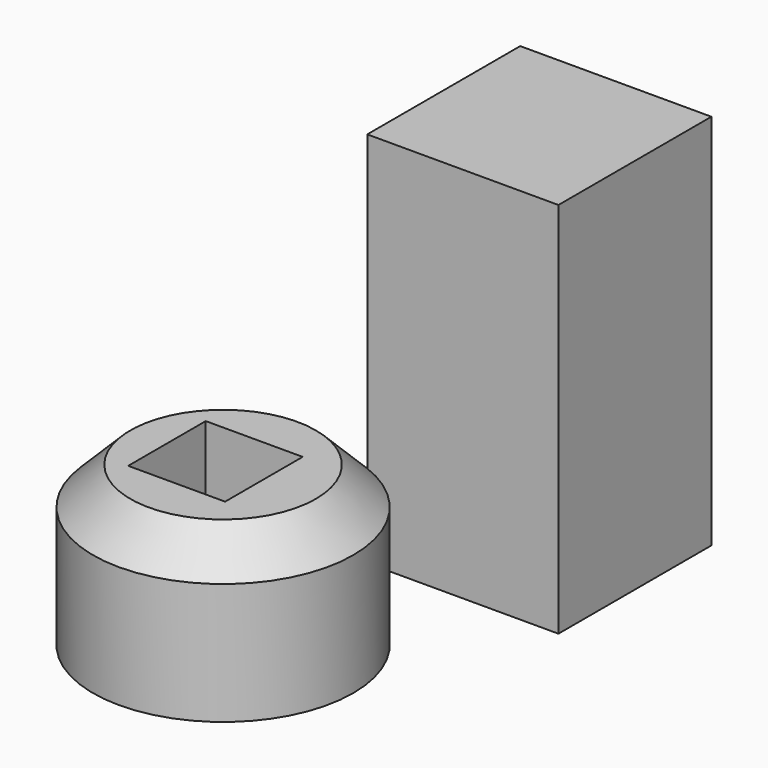
from build123d import *

# Parameters (mm, degrees)
F0_W     = 25.9884092957
F0_H     = 25.9884092957
F1_DEPTH = 51.308
F2_R     = 17.6930422515
F3_DEPTH = 21.59
F4_W     = 13.1772533059
F4_H     = 13.1772533059
F5_DEPTH = 25.4
F6_DEPTH = 65.278
F7_SIZE  = 5.08


with BuildPart() as f1:
    # F0 (on Top) → F1 (new body)
    with BuildSketch(Plane.XY):
        with Locations((-109.9380506203, 34.7855379805)):
            Rectangle(F0_W, F0_H)
    extrude(amount=F1_DEPTH)



with BuildPart() as f3:
    # F2 (on Top) → F3 (new body)
    with BuildSketch(Plane.XY):
        with Locations((-123.1131777167, -2.4789941963)):
            Circle(F2_R)
    extrude(amount=F3_DEPTH)

    # F4 (on face) → F5 (cut)
    with BuildSketch(Plane.XY.offset(21.59)):
        with Locations((-124.220173806, -2.3982524872)):
            Rectangle(F4_W, F4_H)
    extrude(amount=-F5_DEPTH, mode=Mode.SUBTRACT)


with BuildPart() as f1_1:
    add(f1.part)
    # F6 (cut): a face of the model
    f6_faces = [f3.part.faces().sort_by_distance(p)[0] for p in [
        (-140.305785162, -2.4789941963, 21.59),
    ]]
    extrude(f6_faces, amount=F6_DEPTH, mode=Mode.SUBTRACT)


with BuildPart() as f3_1:
    add(f3.part)

    # F7
    f7_edges = [f3_1.edges().sort_by_distance(p)[0] for p in [
        (-140.80622, -2.478994, 21.59),
    ]]
    chamfer(f7_edges, length=F7_SIZE)


solid = Compound([f1_1.part, f3_1.part])
